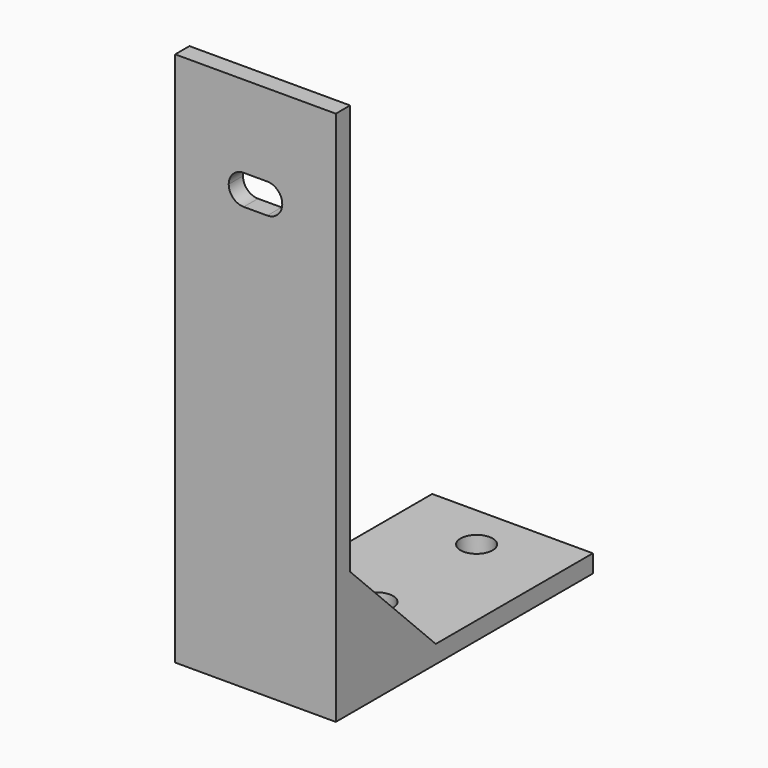
from build123d import *

# Parameters (mm, degrees)
F1_DEPTH = 38.1
F3_DEPTH = 25.4
F5_DEPTH = 4.2333333333
F7_DEPTH = 4.2333333333
F9_D     = 7.62
F9_DEPTH = 12.7
F9_TIP   = 2.2892789585


with BuildPart() as f1:
    # F0 (on Right) → F1 (new body)
    with BuildSketch(Plane.YZ):
        Polygon((-31.7897086839, 80.859287534), (-36.0230420173, 80.859287534), (-36.0230420173, -46.140712466), (40.1769579827, -46.140712466), (40.1769579827, -41.9073791327), (-31.7897086839, -41.9073791327), align=None)
    extrude(amount=F1_DEPTH)

    # F2 (on face) → F3 (cut)
    with BuildSketch(Plane.XZ.offset(36.0230420173)):
        with BuildLine():
            Line((21.844, 61.4068451581), (16.256, 61.4068451581))
            ThreePointArc((16.256, 61.4068451581), (13.7415282861, 60.365316872), (12.7, 57.8508451581))
            ThreePointArc((12.7, 57.8508451581), (13.7415282861, 55.3363734442), (16.256, 54.2948451581))
            Line((16.256, 54.2948451581), (21.844, 54.2948451581))
            ThreePointArc((21.844, 54.2948451581), (24.3584717139, 55.3363734442), (25.4, 57.8508451581))
            ThreePointArc((25.4, 57.8508451581), (24.3584717139, 60.365316872), (21.844, 61.4068451581))
        make_face()
    extrude(amount=-F3_DEPTH, mode=Mode.SUBTRACT)

    # F4 (on face) → F5 (join)
    with BuildSketch(Plane.YZ.offset(38.1)):
        Polygon((-31.7897086839, -41.9073791327), (-6.3897086839, -41.9073791327), (-31.7897086839, -16.5073791327), align=None)
    extrude(amount=-F5_DEPTH)

    # F6 (on face) → F7 (join)
    with BuildSketch(Plane(origin=(0, 0, 0), x_dir=(0, -1, 0), z_dir=(-1, 0, 0))):
        Polygon((31.7897086839, -41.9073791327), (31.7897086839, -16.5073791327), (6.3897086839, -41.9073791327), align=None)
    extrude(amount=-F7_DEPTH)

    # F9
    with Locations(Plane.XY.offset(-41.9073791327)):
        with Locations((19.05, 0), (19.05, 29.5239835978)):
            Hole(F9_D / 2, depth=F9_DEPTH)
            with Locations((0, 0, -(F9_DEPTH + F9_TIP / 2))):  # 118° drill point
                Cone(0, F9_D / 2, F9_TIP, mode=Mode.SUBTRACT)


solid = f1.part
